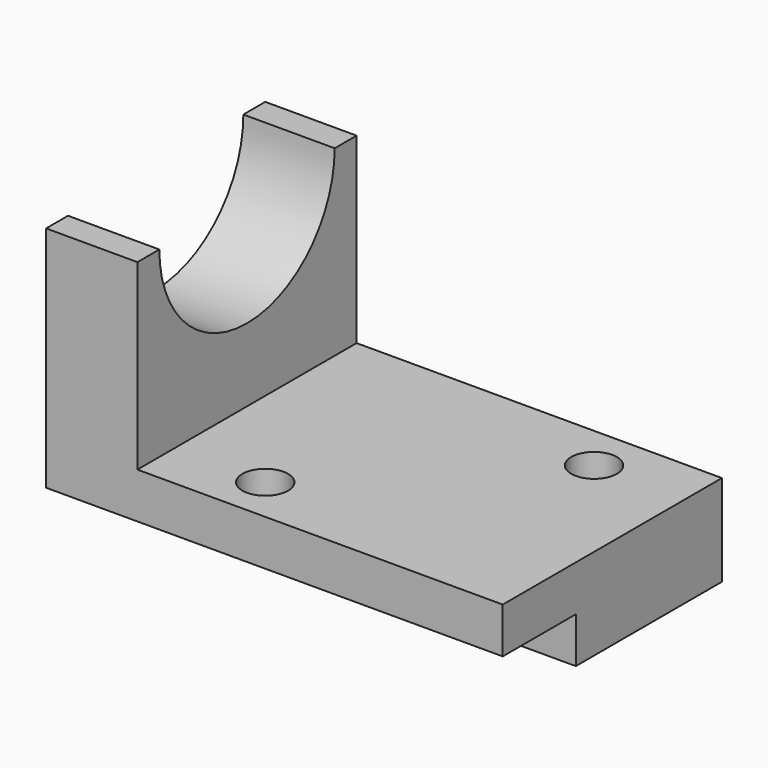
from build123d import *

# Parameters (mm, degrees)
F0_W      = 2540
F0_H      = 1524
F1_DEPTH  = 1524
F2_W      = 2500.7290350051
F2_H      = 1991.9227032241
F3_DEPTH  = 1016
F4_W      = 671.5307240188
F4_H      = 361.5935033129
F5_DEPTH  = 2540.001
F6_R      = 609.6
F7_DEPTH  = 508.001
F8_R      = 127
F9_DEPTH  = 508.001
F10_R     = 127
F11_DEPTH = 508.001


with BuildPart() as f1:
    # F0 (on Front) → F1 (new body)
    with BuildSketch(Plane.XZ):
        with Locations((3.1360983849, -23.7037387643)):
            Rectangle(F0_W, F0_H)
    extrude(amount=F1_DEPTH)

    # F2 (on face) → F3 (cut)
    with BuildSketch(Plane.XY.offset(738.2962612357)):
        with Locations((491.5006158874, -797.8574298322)):
            Rectangle(F2_W, F2_H)
    extrude(amount=-F3_DEPTH, mode=Mode.SUBTRACT)

    # F4 (on face) → F5 (cut, through all)
    with BuildSketch(Plane.YZ.offset(1273.1360983849)):
        with Locations((-1351.7653620094, -712.5004904208)):
            Rectangle(F4_W, F4_H)
    extrude(amount=-F5_DEPTH, mode=Mode.SUBTRACT)

    # F6 (on face) → F7 (cut, through all)
    with BuildSketch(Plane.YZ.offset(-758.8639016151)):
        with Locations((-762, 738.2962612357)):
            Circle(F6_R)
    extrude(amount=-F7_DEPTH, mode=Mode.SUBTRACT)

    # F8 (on face) → F9 (cut, through all)
    with BuildSketch(Plane.XY.offset(-277.7037387643)):
        with Locations((765.1360983849, -254)):
            Circle(F8_R)
    extrude(amount=-F9_DEPTH, mode=Mode.SUBTRACT)

    # F10 (on face) → F11 (cut, through all)
    with BuildSketch(Plane.XY.offset(-277.7037387643)):
        with Locations((-250.8639016151, -1270)):
            Circle(F10_R)
    extrude(amount=-F11_DEPTH, mode=Mode.SUBTRACT)


solid = f1.part
